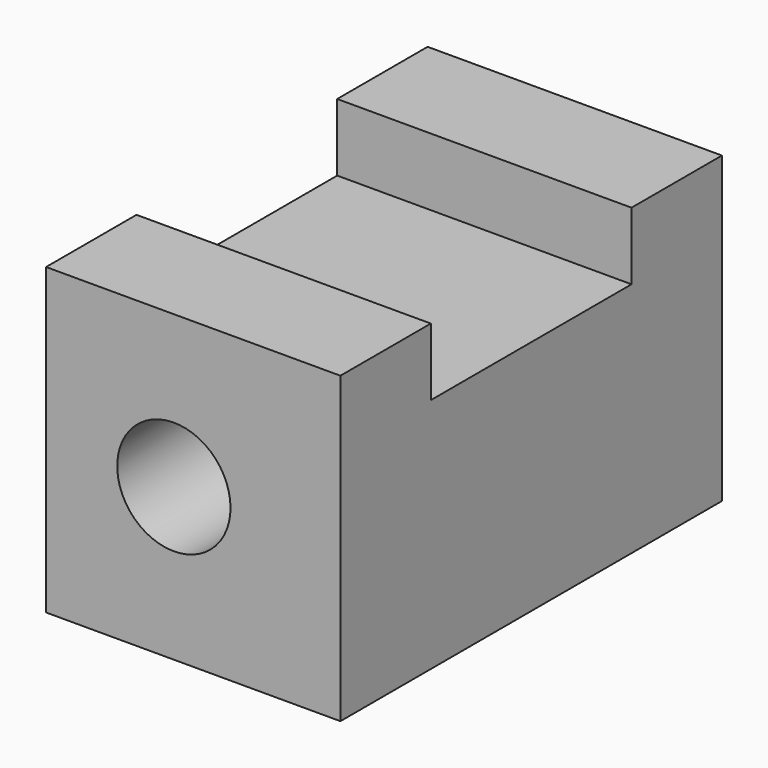
from build123d import *

# Parameters (mm, degrees)
F0_W     = 167.511746
F0_H     = 106.832422
F1_DEPTH = 103.378
F2_R     = 19.899067
F3_DEPTH = 229.362
F4_W     = 88.121988
F4_H     = 47.376074
F5_DEPTH = 133.096


with BuildPart() as f1:
    # F0 (on Right) → F1 (new body)
    with BuildSketch(Plane.YZ):
        Rectangle(F0_W, F0_H)
    extrude(amount=F1_DEPTH)

    # F2 (on face) → F3 (cut)
    with BuildSketch(Plane.XZ.offset(83.755873)):
        with Locations((44.885427, 0)):
            Circle(F2_R)
    extrude(amount=-F3_DEPTH, mode=Mode.SUBTRACT)

    # F4 (on face) → F5 (cut)
    with BuildSketch(Plane.YZ.offset(103.378)):
        with Locations((0, 53.416211)):
            Rectangle(F4_W, F4_H)
    extrude(amount=-F5_DEPTH, mode=Mode.SUBTRACT)


solid = f1.part
